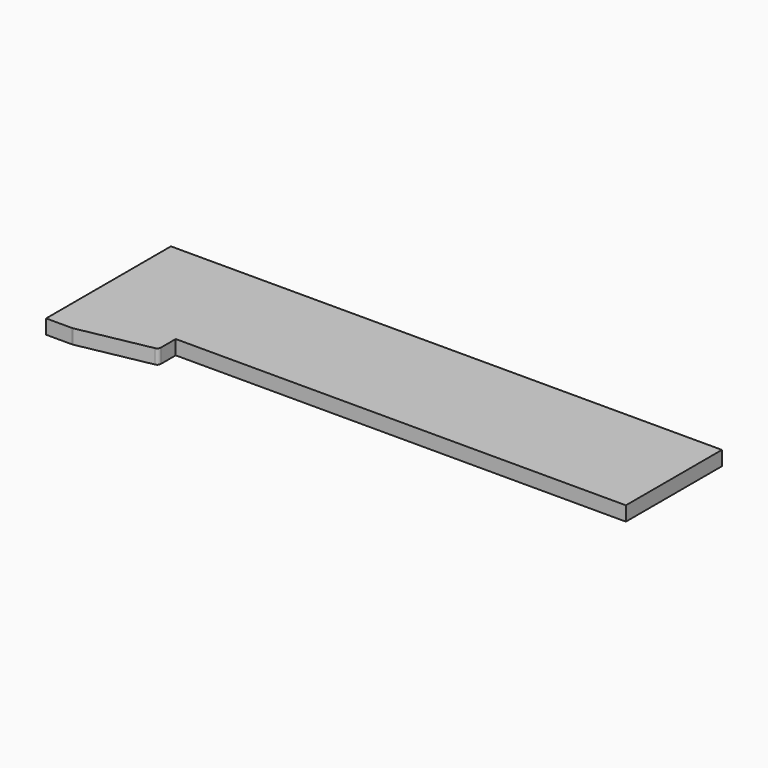
from build123d import *

# Parameters (mm, degrees)
F1_DEPTH = 12
F2_R     = 3


with BuildPart() as f1:
    # F0 (on Top) → F1 (new body)
    with BuildSketch(Plane.XY):
        Polygon((-229.5, 0), (-207.5, 0), (-145.5, 12), (-145.5, 30), (229.5, 30), (229.5, 130), (-229.5, 130), align=None)
    extrude(amount=F1_DEPTH)

    # F2
    f2_edges = [f1.edges().sort_by_distance(p)[0] for p in [
        (-145.5, 12, 6),
        (-207.5, 0, 6),
    ]]
    fillet(f2_edges, radius=F2_R)


solid = f1.part
